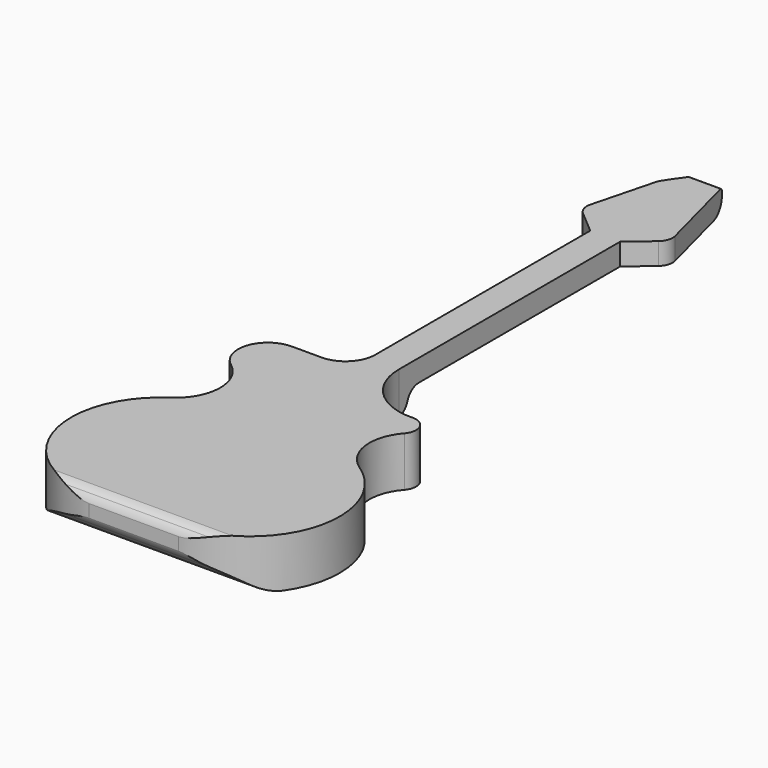
from build123d import *

# Parameters (mm, degrees)
F1_DEPTH = 101.6
F2_W     = 1257.021352
F2_H     = 189.658009
F3_DEPTH = 304.801
F4_DEPTH = 152.401


with BuildPart() as f1:
    # F0 (on Top) → F1 (new body)
    with BuildSketch(Plane.XY):
        with BuildLine():
            ThreePointArc((-81.28, 251.036195), (-50.828259, 188.00114), (-84.666667, 126.717463))
            ThreePointArc((-84.666667, 126.717463), (-145.838098, -44.238098), (0, -152.4))
            Line((0, -152.4), (152.4, -152.4))
            ThreePointArc((152.4, -152.4), (298.238098, -44.238098), (237.066667, 126.717463))
            ThreePointArc((237.066667, 126.717463), (203.838207, 180.234678), (222.25, 240.477758))
            ThreePointArc((222.25, 240.477758), (226.166681, 268.126854), (202.32325, 282.663142))
            ThreePointArc((202.32325, 282.663142), (131.315454, 309.943826), (101.6, 379.96764))
            Line((101.6, 379.96764), (101.6, 850.476195))
            Line((101.6, 850.476195), (140.308257, 883.505244))
            ThreePointArc((140.308257, 883.505244), (148.047216, 895.194332), (148.406537, 909.208509))
            Line((148.406537, 909.208509), (109.953977, 1056.373323))
            ThreePointArc((109.953977, 1056.373323), (90.045146, 1074.919879), (64.781823, 1064.815382))
            Line((64.781823, 1064.815382), (42.783839, 1034.330968))
            Line((42.783839, 1034.330968), (34.39404, 1021.281634))
            ThreePointArc((34.39404, 1021.281634), (32.491534, 1017.732173), (31.173938, 1013.926632))
            Line((31.173938, 1013.926632), (3.993463, 909.208509))
            ThreePointArc((3.993463, 909.208509), (4.352784, 895.194332), (12.091743, 883.505244))
            Line((12.091743, 883.505244), (50.8, 850.476195))
            Line((50.8, 850.476195), (50.8, 393.276195))
            ThreePointArc((50.8, 393.276195), (35.921024, 357.355171), (0, 342.476195))
            Line((0, 342.476195), (-50.8, 342.476195))
            ThreePointArc((-50.8, 342.476195), (-98.993112, 307.740566), (-81.28, 251.036195))
        make_face()
    extrude(amount=F1_DEPTH)

    # F2 (on Right) → F3 (cut, through all)
    with BuildSketch(Plane.YZ):
        with Locations((456.159748, 22.18328)):
            Rectangle(F2_W, F2_H)
        with BuildLine():
            ThreePointArc((1056.942703, 89.788765), (1049.503216, 71.828253), (1031.542703, 64.388765))
            Line((1031.542703, 64.388765), (422.418403, 64.388765))
            ThreePointArc((422.418403, 64.388765), (407.414851, 59.48397), (398.205736, 46.663839))
            ThreePointArc((398.205736, 46.663839), (394.189746, 38.935854), (387.799281, 33.01877))
            Line((387.799281, 33.01877), (369.241137, 21.001137))
            ThreePointArc((369.241137, 21.001137), (362.633132, 17.962589), (355.434925, 16.92128))
            Line((355.434925, 16.92128), (-86.235178, 16.92128))
            ThreePointArc((-86.235178, 16.92128), (-103.426242, 19.918484), (-118.588758, 28.556425))
            Line((-118.588758, 28.556425), (-144.24981, 49.754688))
            ThreePointArc((-144.24981, 49.754688), (-151.051819, 58.514234), (-153.47302, 69.337115))
            Line((-153.47302, 69.337115), (-153.47302, 76.600858))
            ThreePointArc((-153.47302, 76.600858), (-151.357661, 86.749034), (-145.363926, 95.206893))
            ThreePointArc((-145.363926, 95.206893), (-137.361903, 100.24143), (-128.07302, 102.000858))
            Line((-128.07302, 102.000858), (1050.592703, 102.000858))
            ThreePointArc((1050.592703, 102.000858), (1055.082831, 100.140986), (1056.942703, 95.650858))
            Line((1056.942703, 95.650858), (1056.942703, 89.788765))
        make_face(mode=Mode.SUBTRACT)
    extrude(amount=F3_DEPTH, mode=Mode.SUBTRACT)

    # F2 (on Right) → F4 (cut, through all)
    with BuildSketch(Plane.YZ):
        with Locations((456.159748, 22.18328)):
            Rectangle(F2_W, F2_H)
        with BuildLine():
            ThreePointArc((1056.942703, 89.788765), (1049.503216, 71.828253), (1031.542703, 64.388765))
            Line((1031.542703, 64.388765), (422.418403, 64.388765))
            ThreePointArc((422.418403, 64.388765), (407.414851, 59.48397), (398.205736, 46.663839))
            ThreePointArc((398.205736, 46.663839), (394.189746, 38.935854), (387.799281, 33.01877))
            Line((387.799281, 33.01877), (369.241137, 21.001137))
            ThreePointArc((369.241137, 21.001137), (362.633132, 17.962589), (355.434925, 16.92128))
            Line((355.434925, 16.92128), (-86.235178, 16.92128))
            ThreePointArc((-86.235178, 16.92128), (-103.426242, 19.918484), (-118.588758, 28.556425))
            Line((-118.588758, 28.556425), (-144.24981, 49.754688))
            ThreePointArc((-144.24981, 49.754688), (-151.051819, 58.514234), (-153.47302, 69.337115))
            Line((-153.47302, 69.337115), (-153.47302, 76.600858))
            ThreePointArc((-153.47302, 76.600858), (-151.357661, 86.749034), (-145.363926, 95.206893))
            ThreePointArc((-145.363926, 95.206893), (-137.361903, 100.24143), (-128.07302, 102.000858))
            Line((-128.07302, 102.000858), (1050.592703, 102.000858))
            ThreePointArc((1050.592703, 102.000858), (1055.082831, 100.140986), (1056.942703, 95.650858))
            Line((1056.942703, 95.650858), (1056.942703, 89.788765))
        make_face(mode=Mode.SUBTRACT)
    extrude(amount=-F4_DEPTH, mode=Mode.SUBTRACT)


solid = f1.part
